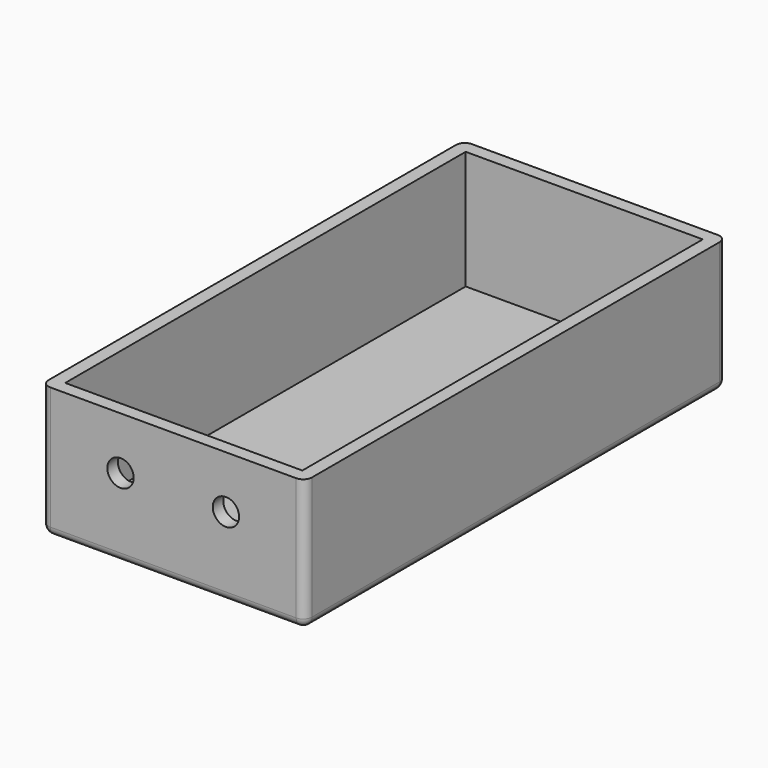
from build123d import *

# Parameters (mm, degrees)
F0_W     = 60
F0_H     = 120
F1_DEPTH = 30
F2_T     = -3
F3_R     = 2
F5_D     = 6
F5_DEPTH = 12
F6_R     = 2


with BuildPart() as f1:
    # F0 (on Top) → F1 (new body)
    with BuildSketch(Plane.XY):
        Rectangle(F0_W, F0_H)
    extrude(amount=F1_DEPTH)

    # F2
    f2_openings = [f1.faces().sort_by_distance(p)[0] for p in [
        (0, 0, 30),
    ]]
    offset(amount=F2_T, openings=f2_openings)

    # F3
    f3_edges = [f1.edges().sort_by_distance(p)[0] for p in [
        (30, -60, 15),
        (30, 60, 15),
        (-30, 60, 15),
        (-30, -60, 15),
    ]]
    fillet(f3_edges, radius=F3_R)

    # F5
    with Locations(Plane.XZ.offset(60)):
        with Locations((-12, 18.03771), (12, 18.03771)):
            Hole(F5_D / 2, depth=F5_DEPTH)

    # F6
    f6_edges = [f1.edges().sort_by_distance(p)[0] for p in [
        (30, 0, 0),
        (29.414214, -59.414214, 0),
        (29.414214, 59.414214, 0),
        (0, -60, 0),
        (0, 60, 0),
        (-29.414214, -59.414214, 0),
        (-29.414214, 59.414214, 0),
        (-30, 0, 0),
    ]]
    fillet(f6_edges, radius=F6_R)


solid = f1.part
